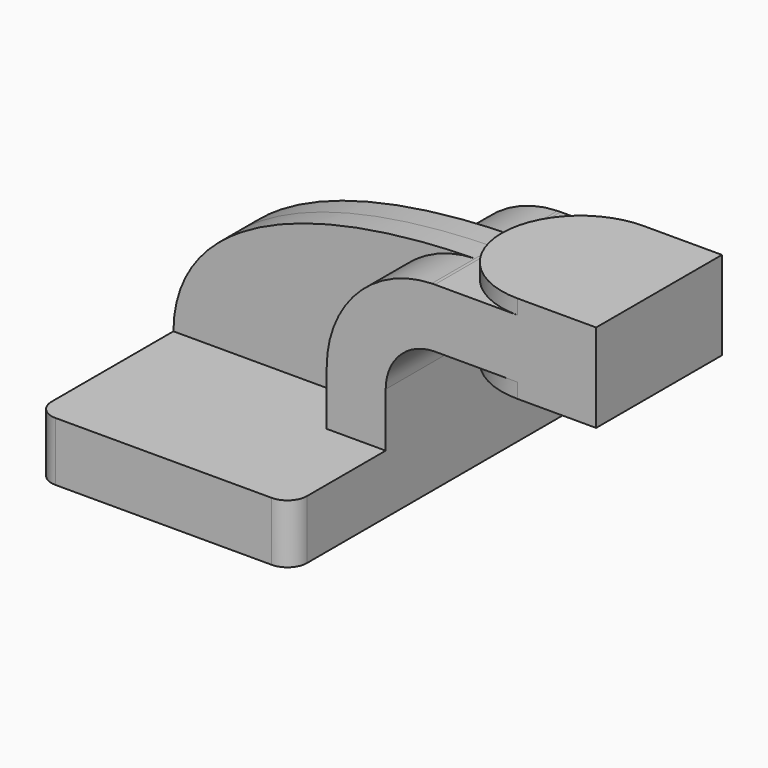
from build123d import *

# Parameters (mm, degrees)
F1_DEPTH = 63.5
F0_W     = 25.4
F0_H     = 19.05
F2_DEPTH = 25.4
F3_DEPTH = 7.9375
F5_R     = 6.35


with BuildPart() as f1:
    # F0 (on Front) → F1 (new body, symmetric)
    with BuildSketch(Plane.XZ):
        Polygon((22.225, 9.525), (-41.275, 9.525), (-41.275, -9.525), (41.275, -9.525), (41.275, 9.525), align=None)
    extrude(amount=F1_DEPTH, both=True)

    # F0 (on Front) → F2 (join, symmetric)
    with BuildSketch(Plane.XZ):
        with BuildLine():
            Line((22.225, 27.0002), (22.225, 9.525))
            Line((22.225, 9.525), (41.275, 9.525))
            Line((41.275, 9.525), (41.275, 27.0002))
            ThreePointArc((41.275, 27.0002), (45.9246798487, 38.2255201513), (57.15, 42.8752))
            Line((57.15, 42.8752), (58.465048489, 42.8752))
            Line((58.465048489, 42.8752), (58.465048489, 61.9252))
            Line((58.465048489, 61.9252), (57.15, 61.9252))
            add(Edge.make_bspline(
                [(56.1593998767, 61.9111486608), (56.4890557248, 61.9164037237), (56.8192573531, 61.9210875625), (57.15, 61.9252)],
                knots=[110.8592289818, 110.8592289818, 110.8592289818, 110.8592289818, 111.5045361635, 111.5045361635, 111.5045361635, 111.5045361635], degree=3))
            ThreePointArc((56.1593998767, 61.9111486608), (32.1065144768, 51.3431549941), (22.225, 27.0002))
        make_face()
        with Locations((71.165048489, 52.4002)):
            Rectangle(F0_W, F0_H)
        Polygon((83.865048489, 66.675), (83.865048489, 61.9252), (83.865048489, 42.8752), (83.865048489, 38.1), (109.265048489, 38.1), (109.265048489, 66.675), align=None)
    extrude(amount=F2_DEPTH, both=True)

    # F0 (on Front) → F3 (join, symmetric)
    with BuildSketch(Plane.XZ):
        with BuildLine():
            add(Edge.make_bspline(
                [(-41.275, 9.525), (-40.9981963046, 43.2471461139), (-0.4731530978, 61.0083658582), (56.1593998767, 61.9111486608)],
                knots=[0, 0, 0, 0, 110.8592289818, 110.8592289818, 110.8592289818, 110.8592289818], degree=3))
            Line((-41.275, 9.525), (22.225, 9.525))
            Line((22.225, 9.525), (22.225, 27.0002))
            ThreePointArc((22.225, 27.0002), (32.1065144768, 51.3431549941), (56.1593998767, 61.9111486608))
        make_face()
    extrude(amount=F3_DEPTH, both=True)

    # F0 (on Front) → F4 (revolve)
    with BuildSketch(Plane.XZ):
        Polygon((83.865048489, 66.675), (83.865048489, 61.9252), (83.865048489, 42.8752), (83.865048489, 38.1), (109.265048489, 38.1), (109.265048489, 66.675), align=None)
    revolve(axis=Axis((83.865048489, 0, 52.3875), (0, 0, 1)))

    # F5
    f5_edges = [f1.edges().sort_by_distance(p)[0] for p in [
        (-41.275, 63.5, 0),
        (-41.275, -63.5, 0),
        (41.275, -63.5, 0),
        (41.275, 63.5, 0),
    ]]
    fillet(f5_edges, radius=F5_R)


solid = f1.part
